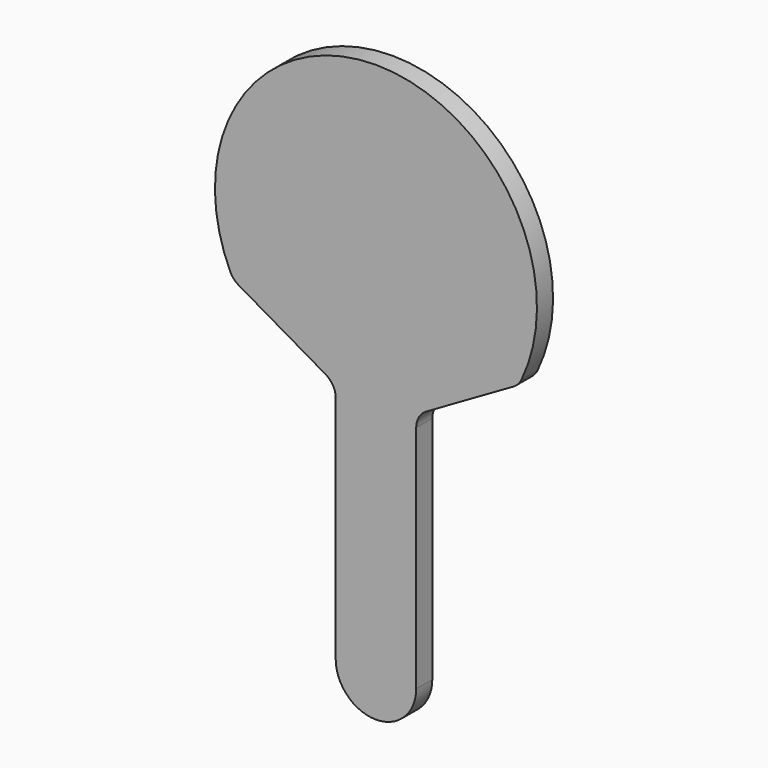
from build123d import *

# Parameters (mm, degrees)
F1_DEPTH = 6.35


with BuildPart() as f1:
    # F0 (on Front) → F1 (new body)
    with BuildSketch(Plane.XZ):
        with BuildLine():
            ThreePointArc((19.578911, 23.153563), (21.903173, 20.829301), (22.753911, 17.654301))
            Line((22.753911, 17.654301), (22.753911, -54.879524))
            ThreePointArc((22.753911, -54.879524), (35.453911, -67.579524), (48.153911, -54.879524))
            Line((48.153911, -54.879524), (48.153911, 17.654301))
            ThreePointArc((48.153911, 17.654301), (49.00465, 20.829301), (51.328911, 23.153563))
            Line((51.328911, 23.153563), (78.825218, 39.028563))
            ThreePointArc((78.825218, 39.028563), (80.321796, 40.226794), (81.392547, 41.817076))
            ThreePointArc((81.392547, 41.817076), (35.453911, 114.303056), (-10.484725, 41.817076))
            ThreePointArc((-10.484725, 41.817076), (-9.413974, 40.226794), (-7.917395, 39.028563))
            Line((-7.917395, 39.028563), (19.578911, 23.153563))
        make_face()
    extrude(amount=F1_DEPTH)


solid = f1.part
